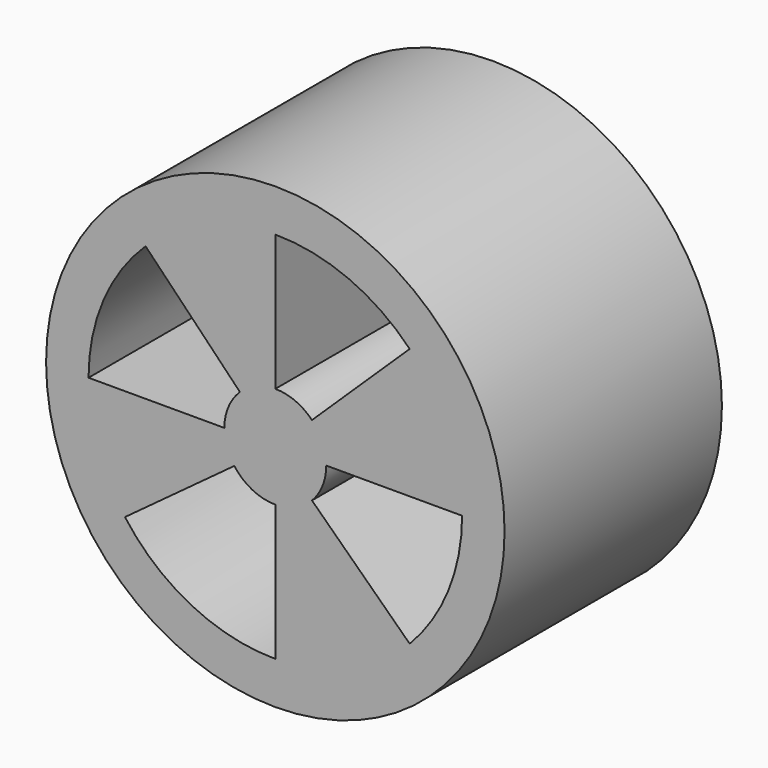
from build123d import *

# Parameters (mm, degrees)
F0_R     = 6.75
F1_DEPTH = 8
F3_DEPTH = 8.001
F4_DEPTH = 8.001


with BuildPart() as f1:
    # F0 (on Front) → F1 (new body)
    with BuildSketch(Plane.XZ):
        Circle(F0_R)
    extrude(amount=F1_DEPTH)

    # F2 (on face) → F3 (cut, through all)
    with BuildSketch(Plane(origin=(0, 0, 0), x_dir=(-1, 0, 0), z_dir=(0, 1, 0))):
        with BuildLine():
            Line((0, 1.5), (0, 5.5))
            ThreePointArc((0, 5.5), (-2.1488308702, 5.0628574828), (-3.9560816184, 3.8209185059))
            Line((-3.9560816184, 3.8209185059), (-1.0789313505, 1.0420686834))
            ThreePointArc((-1.0789313505, 1.0420686834), (-0.5860447828, 1.3807793135), (0, 1.5))
        make_face()
    extrude(amount=-F3_DEPTH, mode=Mode.SUBTRACT)

    # F2 (on face) → F4 (cut, through all)
    with BuildSketch(Plane(origin=(0, 0, 0), x_dir=(-1, 0, 0), z_dir=(0, 1, 0))):
        with BuildLine():
            Line((1.5, 0), (5.5, 0))
            ThreePointArc((5.5, 0), (5.0628574828, 2.1488308702), (3.8209185059, 3.9560816184))
            Line((3.8209185059, 3.9560816184), (1.0420686834, 1.0789313505))
            ThreePointArc((1.0420686834, 1.0789313505), (1.3807793135, 0.5860447828), (1.5, 0))
        make_face()
        with BuildLine():
            ThreePointArc((0, -5.5), (2.4803486414, -4.9089582008), (4.4276101105, -3.2628620427))
            Line((4.4276101105, -3.2628620427), (1.2075300301, -0.8898714662))
            ThreePointArc((1.2075300301, -0.8898714662), (0.6764587204, -1.338806782), (0, -1.5))
            Line((0, -1.5), (0, -5.5))
        make_face()
        with BuildLine():
            ThreePointArc((-5.5, 0), (-5.0994337382, -2.0605279783), (-3.9560816184, -3.8209185059))
            Line((-3.9560816184, -3.8209185059), (-1.0789313505, -1.0420686834))
            ThreePointArc((-1.0789313505, -1.0420686834), (-1.3907546559, -0.5619621759), (-1.5, 0))
            Line((-1.5, 0), (-5.5, 0))
        make_face()
        with BuildLine():
            Line((0, 1.5), (0, 5.5))
            ThreePointArc((0, 5.5), (-2.1488308702, 5.0628574828), (-3.9560816184, 3.8209185059))
            Line((-3.9560816184, 3.8209185059), (-1.0789313505, 1.0420686834))
            ThreePointArc((-1.0789313505, 1.0420686834), (-0.5860447828, 1.3807793135), (0, 1.5))
        make_face()
    extrude(amount=-F4_DEPTH, mode=Mode.SUBTRACT)


solid = f1.part
